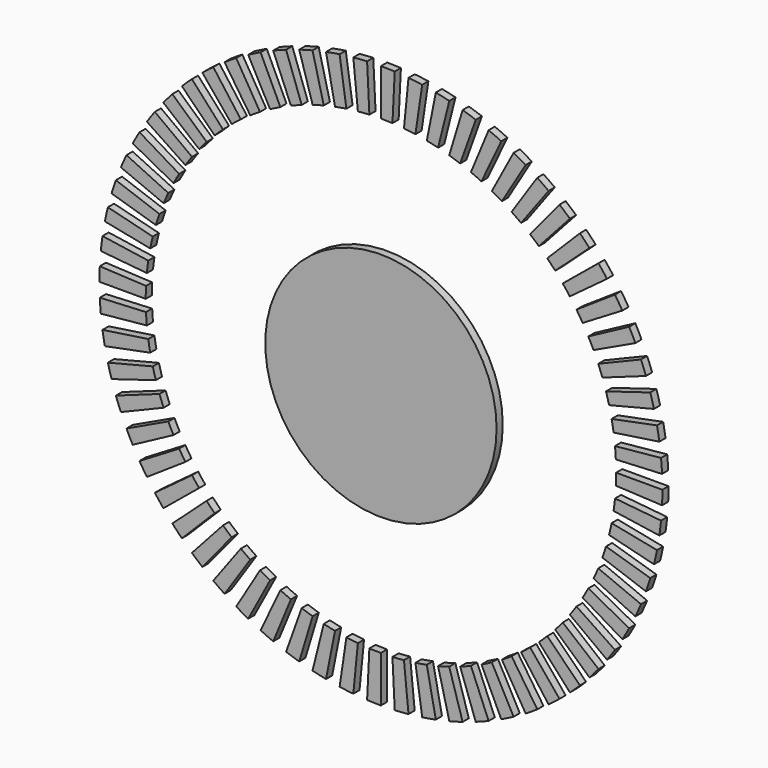
from build123d import *

# Parameters (mm, degrees)
F0_R     = 15
F1_DEPTH = 1


with BuildPart() as f1:
    # F0 (on Front) → F1 (new body)
    with BuildSketch(Plane.XZ):
        with BuildLine():
            Line((1.496564, 30.463261), (1.79097, 36.456034))
            ThreePointArc((1.79097, 36.456034), (0.895755, 36.489007), (0, 36.5))
            Line((0, 36.5), (0, 30.5))
            ThreePointArc((0, 30.5), (0.748507, 30.490814), (1.496564, 30.463261))
        make_face()
        with BuildLine():
            ThreePointArc((-2.989523, 30.353134), (-2.243719, 30.417359), (-1.496564, 30.463261))
            Line((-1.496564, 30.463261), (-1.79097, 36.456034))
            ThreePointArc((-1.79097, 36.456034), (-2.685107, 36.401102), (-3.577626, 36.324243))
            Line((-3.577626, 36.324243), (-2.989523, 30.353134))
        make_face()
        with BuildLine():
            ThreePointArc((-5.950255, 29.913951), (-5.214338, 30.050968), (-4.475279, 30.169884))
            Line((-4.475279, 30.169884), (-5.355662, 36.104943))
            ThreePointArc((-5.355662, 36.104943), (-6.240109, 35.962634), (-7.120797, 35.798663))
            Line((-7.120797, 35.798663), (-5.950255, 29.913951))
        make_face()
        with BuildLine():
            ThreePointArc((-8.853683, 29.18668), (-8.134739, 29.39517), (-7.410895, 29.585953))
            Line((-7.410895, 29.585953), (-8.868777, 35.406141))
            ThreePointArc((-8.868777, 35.406141), (-9.735016, 35.177826), (-10.595391, 34.928322))
            Line((-10.595391, 34.928322), (-8.853683, 29.18668))
        make_face()
        with BuildLine():
            ThreePointArc((-11.671845, 28.178326), (-10.976799, 28.45628), (-10.275141, 28.717094))
            Line((-10.275141, 28.717094), (-12.29648, 34.366358))
            ThreePointArc((-12.29648, 34.366358), (-13.136169, 34.054237), (-13.967945, 33.721603))
            Line((-13.967945, 33.721603), (-11.671845, 28.178326))
        make_face()
        with BuildLine():
            ThreePointArc((-14.3776, 26.898599), (-13.713146, 27.243341), (-13.04043, 27.571673))
            Line((-13.04043, 27.571673), (-15.605761, 32.995609))
            ThreePointArc((-15.605761, 32.995609), (-16.410814, 32.602687), (-17.205981, 32.190126))
            Line((-17.205981, 32.190126), (-14.3776, 26.898599))
        make_face()
        with BuildLine():
            ThreePointArc((-16.944892, 25.359823), (-16.317427, 25.768034), (-15.680134, 26.160723))
            Line((-15.680134, 26.160723), (-18.76475, 31.307094))
            ThreePointArc((-18.76475, 31.307094), (-19.527413, 30.837155), (-20.278314, 30.348641))
            Line((-20.278314, 30.348641), (-16.944892, 25.359823))
        make_face()
        with BuildLine():
            ThreePointArc((-19.348995, 23.576819), (-18.764564, 24.044566), (-18.168829, 24.49783))
            Line((-18.168829, 24.49783), (-21.743025, 29.317075))
            ThreePointArc((-21.743025, 29.317075), (-22.455953, 28.774645), (-23.155355, 28.214882))
            Line((-23.155355, 28.214882), (-19.348995, 23.576819))
        make_face()
        with BuildLine():
            ThreePointArc((-21.566757, 21.566757), (-21.030987, 22.089536), (-20.482548, 22.599009))
            Line((-20.482548, 22.599009), (-24.511902, 27.044716))
            ThreePointArc((-24.511902, 27.044716), (-25.16823, 26.435019), (-25.809398, 25.809398))
            Line((-25.809398, 25.809398), (-21.566757, 21.566757))
        make_face()
        with BuildLine():
            ThreePointArc((-23.576819, 19.348995), (-23.09487, 19.921772), (-22.599009, 20.482548))
            Line((-22.599009, 20.482548), (-27.044716, 24.511902))
            ThreePointArc((-27.044716, 24.511902), (-27.638123, 23.840809), (-28.214882, 23.155355))
            Line((-28.214882, 23.155355), (-23.576819, 19.348995))
        make_face()
        with BuildLine():
            ThreePointArc((-25.359823, 16.944892), (-24.936337, 17.56215), (-24.49783, 18.168829))
            Line((-24.49783, 18.168829), (-29.317075, 21.743025))
            ThreePointArc((-29.317075, 21.743025), (-29.841846, 21.016999), (-30.348641, 20.278314))
            Line((-30.348641, 20.278314), (-25.359823, 16.944892))
        make_face()
        with BuildLine():
            ThreePointArc((-26.898599, 14.3776), (-26.537653, 15.033395), (-26.160723, 15.680134))
            Line((-26.160723, 15.680134), (-31.307094, 18.76475))
            ThreePointArc((-31.307094, 18.76475), (-31.758175, 17.990784), (-32.190126, 17.205981))
            Line((-32.190126, 17.205981), (-26.898599, 14.3776))
        make_face()
        with BuildLine():
            ThreePointArc((-28.178326, 11.671845), (-27.883398, 12.35986), (-27.571673, 13.04043))
            Line((-27.571673, 13.04043), (-32.995609, 15.605761))
            ThreePointArc((-32.995609, 15.605761), (-33.368656, 14.791308), (-33.721603, 13.967945))
            Line((-33.721603, 13.967945), (-28.178326, 11.671845))
        make_face()
        with BuildLine():
            ThreePointArc((-29.18668, 8.853683), (-28.96061, 9.567293), (-28.717094, 10.275141))
            Line((-28.717094, 10.275141), (-34.366358, 12.29648))
            ThreePointArc((-34.366358, 12.29648), (-34.657779, 11.449384), (-34.928322, 10.595391))
            Line((-34.928322, 10.595391), (-29.18668, 8.853683))
        make_face()
        with BuildLine():
            ThreePointArc((-29.913951, 5.950255), (-29.758915, 6.682588), (-29.585953, 7.410895))
            Line((-29.585953, 7.410895), (-35.406141, 8.868777))
            ThreePointArc((-35.406141, 8.868777), (-35.613128, 7.997195), (-35.798663, 7.120797))
            Line((-35.798663, 7.120797), (-29.913951, 5.950255))
        make_face()
        with BuildLine():
            ThreePointArc((-30.353134, 2.989523), (-30.270626, 3.733526), (-30.169884, 4.475279))
            Line((-30.169884, 4.475279), (-36.104943, 5.355662))
            ThreePointArc((-36.104943, 5.355662), (-36.225503, 4.46799), (-36.324243, 3.577626))
            Line((-36.324243, 3.577626), (-30.353134, 2.989523))
        make_face()
        with BuildLine():
            ThreePointArc((-30.5, 0), (-30.490814, 0.748507), (-30.463261, 1.496564))
            Line((-30.463261, 1.496564), (-36.456034, 1.79097))
            ThreePointArc((-36.456034, 1.79097), (-36.489007, 0.895755), (-36.5, 0))
            Line((-36.5, 0), (-30.5, 0))
        make_face()
        with BuildLine():
            ThreePointArc((-30.353134, -2.989523), (-30.417359, -2.243719), (-30.463261, -1.496564))
            Line((-30.463261, -1.496564), (-36.456034, -1.79097))
            ThreePointArc((-36.456034, -1.79097), (-36.401102, -2.685107), (-36.324243, -3.577626))
            Line((-36.324243, -3.577626), (-30.353134, -2.989523))
        make_face()
        with BuildLine():
            ThreePointArc((-29.913951, -5.950255), (-30.050968, -5.214338), (-30.169884, -4.475279))
            Line((-30.169884, -4.475279), (-36.104943, -5.355662))
            ThreePointArc((-36.104943, -5.355662), (-35.962634, -6.240109), (-35.798663, -7.120797))
            Line((-35.798663, -7.120797), (-29.913951, -5.950255))
        make_face()
        with BuildLine():
            ThreePointArc((-29.18668, -8.853683), (-29.39517, -8.134739), (-29.585953, -7.410895))
            Line((-29.585953, -7.410895), (-35.406141, -8.868777))
            ThreePointArc((-35.406141, -8.868777), (-35.177826, -9.735016), (-34.928322, -10.595391))
            Line((-34.928322, -10.595391), (-29.18668, -8.853683))
        make_face()
        with BuildLine():
            ThreePointArc((-28.178326, -11.671845), (-28.45628, -10.976799), (-28.717094, -10.275141))
            Line((-28.717094, -10.275141), (-34.366358, -12.29648))
            ThreePointArc((-34.366358, -12.29648), (-34.054237, -13.136169), (-33.721603, -13.967945))
            Line((-33.721603, -13.967945), (-28.178326, -11.671845))
        make_face()
        with BuildLine():
            ThreePointArc((-26.898599, -14.3776), (-27.243341, -13.713146), (-27.571673, -13.04043))
            Line((-27.571673, -13.04043), (-32.995609, -15.605761))
            ThreePointArc((-32.995609, -15.605761), (-32.602687, -16.410814), (-32.190126, -17.205981))
            Line((-32.190126, -17.205981), (-26.898599, -14.3776))
        make_face()
        with BuildLine():
            ThreePointArc((-25.359823, -16.944892), (-25.768034, -16.317427), (-26.160723, -15.680134))
            Line((-26.160723, -15.680134), (-31.307094, -18.76475))
            ThreePointArc((-31.307094, -18.76475), (-30.837155, -19.527413), (-30.348641, -20.278314))
            Line((-30.348641, -20.278314), (-25.359823, -16.944892))
        make_face()
        with BuildLine():
            ThreePointArc((-23.576819, -19.348995), (-24.044566, -18.764564), (-24.49783, -18.168829))
            Line((-24.49783, -18.168829), (-29.317075, -21.743025))
            ThreePointArc((-29.317075, -21.743025), (-28.774645, -22.455953), (-28.214882, -23.155355))
            Line((-28.214882, -23.155355), (-23.576819, -19.348995))
        make_face()
        with BuildLine():
            ThreePointArc((-21.566757, -21.566757), (-22.089536, -21.030987), (-22.599009, -20.482548))
            Line((-22.599009, -20.482548), (-27.044716, -24.511902))
            ThreePointArc((-27.044716, -24.511902), (-26.435019, -25.16823), (-25.809398, -25.809398))
            Line((-25.809398, -25.809398), (-21.566757, -21.566757))
        make_face()
        with BuildLine():
            ThreePointArc((-19.348995, -23.576819), (-19.921772, -23.09487), (-20.482548, -22.599009))
            Line((-20.482548, -22.599009), (-24.511902, -27.044716))
            ThreePointArc((-24.511902, -27.044716), (-23.840809, -27.638123), (-23.155355, -28.214882))
            Line((-23.155355, -28.214882), (-19.348995, -23.576819))
        make_face()
        with BuildLine():
            ThreePointArc((-16.944892, -25.359823), (-17.56215, -24.936337), (-18.168829, -24.49783))
            Line((-18.168829, -24.49783), (-21.743025, -29.317075))
            ThreePointArc((-21.743025, -29.317075), (-21.016999, -29.841846), (-20.278314, -30.348641))
            Line((-20.278314, -30.348641), (-16.944892, -25.359823))
        make_face()
        with BuildLine():
            ThreePointArc((-14.3776, -26.898599), (-15.033395, -26.537653), (-15.680134, -26.160723))
            Line((-15.680134, -26.160723), (-18.76475, -31.307094))
            ThreePointArc((-18.76475, -31.307094), (-17.990784, -31.758175), (-17.205981, -32.190126))
            Line((-17.205981, -32.190126), (-14.3776, -26.898599))
        make_face()
        with BuildLine():
            ThreePointArc((-11.671845, -28.178326), (-12.35986, -27.883398), (-13.04043, -27.571673))
            Line((-13.04043, -27.571673), (-15.605761, -32.995609))
            ThreePointArc((-15.605761, -32.995609), (-14.791308, -33.368656), (-13.967945, -33.721603))
            Line((-13.967945, -33.721603), (-11.671845, -28.178326))
        make_face()
        with BuildLine():
            ThreePointArc((-8.853683, -29.18668), (-9.567293, -28.96061), (-10.275141, -28.717094))
            Line((-10.275141, -28.717094), (-12.29648, -34.366358))
            ThreePointArc((-12.29648, -34.366358), (-11.449384, -34.657779), (-10.595391, -34.928322))
            Line((-10.595391, -34.928322), (-8.853683, -29.18668))
        make_face()
        with BuildLine():
            ThreePointArc((-5.950255, -29.913951), (-6.682588, -29.758915), (-7.410895, -29.585953))
            Line((-7.410895, -29.585953), (-8.868777, -35.406141))
            ThreePointArc((-8.868777, -35.406141), (-7.997195, -35.613128), (-7.120797, -35.798663))
            Line((-7.120797, -35.798663), (-5.950255, -29.913951))
        make_face()
        with BuildLine():
            ThreePointArc((-2.989523, -30.353134), (-3.733526, -30.270626), (-4.475279, -30.169884))
            Line((-4.475279, -30.169884), (-5.355662, -36.104943))
            ThreePointArc((-5.355662, -36.104943), (-4.46799, -36.225503), (-3.577626, -36.324243))
            Line((-3.577626, -36.324243), (-2.989523, -30.353134))
        make_face()
        with BuildLine():
            ThreePointArc((0, -30.5), (-0.748507, -30.490814), (-1.496564, -30.463261))
            Line((-1.496564, -30.463261), (-1.79097, -36.456034))
            ThreePointArc((-1.79097, -36.456034), (-0.895755, -36.489007), (0, -36.5))
            Line((0, -36.5), (0, -30.5))
        make_face()
        with BuildLine():
            ThreePointArc((2.989523, -30.353134), (2.243719, -30.417359), (1.496564, -30.463261))
            Line((1.496564, -30.463261), (1.79097, -36.456034))
            ThreePointArc((1.79097, -36.456034), (2.685107, -36.401102), (3.577626, -36.324243))
            Line((3.577626, -36.324243), (2.989523, -30.353134))
        make_face()
        with BuildLine():
            ThreePointArc((5.950255, -29.913951), (5.214338, -30.050968), (4.475279, -30.169884))
            Line((4.475279, -30.169884), (5.355662, -36.104943))
            ThreePointArc((5.355662, -36.104943), (6.240109, -35.962634), (7.120797, -35.798663))
            Line((7.120797, -35.798663), (5.950255, -29.913951))
        make_face()
        with BuildLine():
            ThreePointArc((8.853683, -29.18668), (8.134739, -29.39517), (7.410895, -29.585953))
            Line((7.410895, -29.585953), (8.868777, -35.406141))
            ThreePointArc((8.868777, -35.406141), (9.735016, -35.177826), (10.595391, -34.928322))
            Line((10.595391, -34.928322), (8.853683, -29.18668))
        make_face()
        with BuildLine():
            ThreePointArc((11.671845, -28.178326), (10.976799, -28.45628), (10.275141, -28.717094))
            Line((10.275141, -28.717094), (12.29648, -34.366358))
            ThreePointArc((12.29648, -34.366358), (13.136169, -34.054237), (13.967945, -33.721603))
            Line((13.967945, -33.721603), (11.671845, -28.178326))
        make_face()
        with BuildLine():
            ThreePointArc((14.3776, -26.898599), (13.713146, -27.243341), (13.04043, -27.571673))
            Line((13.04043, -27.571673), (15.605761, -32.995609))
            ThreePointArc((15.605761, -32.995609), (16.410814, -32.602687), (17.205981, -32.190126))
            Line((17.205981, -32.190126), (14.3776, -26.898599))
        make_face()
        with BuildLine():
            ThreePointArc((16.944892, -25.359823), (16.317427, -25.768034), (15.680134, -26.160723))
            Line((15.680134, -26.160723), (18.76475, -31.307094))
            ThreePointArc((18.76475, -31.307094), (19.527413, -30.837155), (20.278314, -30.348641))
            Line((20.278314, -30.348641), (16.944892, -25.359823))
        make_face()
        with BuildLine():
            ThreePointArc((19.348995, -23.576819), (18.764564, -24.044566), (18.168829, -24.49783))
            Line((18.168829, -24.49783), (21.743025, -29.317075))
            ThreePointArc((21.743025, -29.317075), (22.455953, -28.774645), (23.155355, -28.214882))
            Line((23.155355, -28.214882), (19.348995, -23.576819))
        make_face()
        with BuildLine():
            ThreePointArc((21.566757, -21.566757), (21.030987, -22.089536), (20.482548, -22.599009))
            Line((20.482548, -22.599009), (24.511902, -27.044716))
            ThreePointArc((24.511902, -27.044716), (25.16823, -26.435019), (25.809398, -25.809398))
            Line((25.809398, -25.809398), (21.566757, -21.566757))
        make_face()
        with BuildLine():
            ThreePointArc((23.576819, -19.348995), (23.09487, -19.921772), (22.599009, -20.482548))
            Line((22.599009, -20.482548), (27.044716, -24.511902))
            ThreePointArc((27.044716, -24.511902), (27.638123, -23.840809), (28.214882, -23.155355))
            Line((28.214882, -23.155355), (23.576819, -19.348995))
        make_face()
        with BuildLine():
            ThreePointArc((25.359823, -16.944892), (24.936337, -17.56215), (24.49783, -18.168829))
            Line((24.49783, -18.168829), (29.317075, -21.743025))
            ThreePointArc((29.317075, -21.743025), (29.841846, -21.016999), (30.348641, -20.278314))
            Line((30.348641, -20.278314), (25.359823, -16.944892))
        make_face()
        with BuildLine():
            ThreePointArc((26.898599, -14.3776), (26.537653, -15.033395), (26.160723, -15.680134))
            Line((26.160723, -15.680134), (31.307094, -18.76475))
            ThreePointArc((31.307094, -18.76475), (31.758175, -17.990784), (32.190126, -17.205981))
            Line((32.190126, -17.205981), (26.898599, -14.3776))
        make_face()
        with BuildLine():
            ThreePointArc((28.178326, -11.671845), (27.883398, -12.35986), (27.571673, -13.04043))
            Line((27.571673, -13.04043), (32.995609, -15.605761))
            ThreePointArc((32.995609, -15.605761), (33.368656, -14.791308), (33.721603, -13.967945))
            Line((33.721603, -13.967945), (28.178326, -11.671845))
        make_face()
        with BuildLine():
            ThreePointArc((29.18668, -8.853683), (28.96061, -9.567293), (28.717094, -10.275141))
            Line((28.717094, -10.275141), (34.366358, -12.29648))
            ThreePointArc((34.366358, -12.29648), (34.657779, -11.449384), (34.928322, -10.595391))
            Line((34.928322, -10.595391), (29.18668, -8.853683))
        make_face()
        with BuildLine():
            ThreePointArc((29.913951, -5.950255), (29.758915, -6.682588), (29.585953, -7.410895))
            Line((29.585953, -7.410895), (35.406141, -8.868777))
            ThreePointArc((35.406141, -8.868777), (35.613128, -7.997195), (35.798663, -7.120797))
            Line((35.798663, -7.120797), (29.913951, -5.950255))
        make_face()
        with BuildLine():
            ThreePointArc((30.353134, -2.989523), (30.270626, -3.733526), (30.169884, -4.475279))
            Line((30.169884, -4.475279), (36.104943, -5.355662))
            ThreePointArc((36.104943, -5.355662), (36.225503, -4.46799), (36.324243, -3.577626))
            Line((36.324243, -3.577626), (30.353134, -2.989523))
        make_face()
        with BuildLine():
            ThreePointArc((30.5, 0), (30.490814, -0.748507), (30.463261, -1.496564))
            Line((30.463261, -1.496564), (36.456034, -1.79097))
            ThreePointArc((36.456034, -1.79097), (36.489007, -0.895755), (36.5, 0))
            Line((36.5, 0), (30.5, 0))
        make_face()
        with BuildLine():
            ThreePointArc((30.353134, 2.989523), (30.417359, 2.243719), (30.463261, 1.496564))
            Line((30.463261, 1.496564), (36.456034, 1.79097))
            ThreePointArc((36.456034, 1.79097), (36.401102, 2.685107), (36.324243, 3.577626))
            Line((36.324243, 3.577626), (30.353134, 2.989523))
        make_face()
        with BuildLine():
            ThreePointArc((29.913951, 5.950255), (30.050968, 5.214338), (30.169884, 4.475279))
            Line((30.169884, 4.475279), (36.104943, 5.355662))
            ThreePointArc((36.104943, 5.355662), (35.962634, 6.240109), (35.798663, 7.120797))
            Line((35.798663, 7.120797), (29.913951, 5.950255))
        make_face()
        with BuildLine():
            ThreePointArc((29.18668, 8.853683), (29.39517, 8.134739), (29.585953, 7.410895))
            Line((29.585953, 7.410895), (35.406141, 8.868777))
            ThreePointArc((35.406141, 8.868777), (35.177826, 9.735016), (34.928322, 10.595391))
            Line((34.928322, 10.595391), (29.18668, 8.853683))
        make_face()
        with BuildLine():
            ThreePointArc((28.178326, 11.671845), (28.45628, 10.976799), (28.717094, 10.275141))
            Line((28.717094, 10.275141), (34.366358, 12.29648))
            ThreePointArc((34.366358, 12.29648), (34.054237, 13.136169), (33.721603, 13.967945))
            Line((33.721603, 13.967945), (28.178326, 11.671845))
        make_face()
        with BuildLine():
            ThreePointArc((26.898599, 14.3776), (27.243341, 13.713146), (27.571673, 13.04043))
            Line((27.571673, 13.04043), (32.995609, 15.605761))
            ThreePointArc((32.995609, 15.605761), (32.602687, 16.410814), (32.190126, 17.205981))
            Line((32.190126, 17.205981), (26.898599, 14.3776))
        make_face()
        with BuildLine():
            ThreePointArc((25.359823, 16.944892), (25.768034, 16.317427), (26.160723, 15.680134))
            Line((26.160723, 15.680134), (31.307094, 18.76475))
            ThreePointArc((31.307094, 18.76475), (30.837155, 19.527413), (30.348641, 20.278314))
            Line((30.348641, 20.278314), (25.359823, 16.944892))
        make_face()
        with BuildLine():
            ThreePointArc((23.576819, 19.348995), (24.044566, 18.764564), (24.49783, 18.168829))
            Line((24.49783, 18.168829), (29.317075, 21.743025))
            ThreePointArc((29.317075, 21.743025), (28.774645, 22.455953), (28.214882, 23.155355))
            Line((28.214882, 23.155355), (23.576819, 19.348995))
        make_face()
        with BuildLine():
            ThreePointArc((21.566757, 21.566757), (22.089536, 21.030987), (22.599009, 20.482548))
            Line((22.599009, 20.482548), (27.044716, 24.511902))
            ThreePointArc((27.044716, 24.511902), (26.435019, 25.16823), (25.809398, 25.809398))
            Line((25.809398, 25.809398), (21.566757, 21.566757))
        make_face()
        with BuildLine():
            ThreePointArc((19.348995, 23.576819), (19.921772, 23.09487), (20.482548, 22.599009))
            Line((20.482548, 22.599009), (24.511902, 27.044716))
            ThreePointArc((24.511902, 27.044716), (23.840809, 27.638123), (23.155355, 28.214882))
            Line((23.155355, 28.214882), (19.348995, 23.576819))
        make_face()
        with BuildLine():
            ThreePointArc((16.944892, 25.359823), (17.56215, 24.936337), (18.168829, 24.49783))
            Line((18.168829, 24.49783), (21.743025, 29.317075))
            ThreePointArc((21.743025, 29.317075), (21.016999, 29.841846), (20.278314, 30.348641))
            Line((20.278314, 30.348641), (16.944892, 25.359823))
        make_face()
        with BuildLine():
            ThreePointArc((14.3776, 26.898599), (15.033395, 26.537653), (15.680134, 26.160723))
            Line((15.680134, 26.160723), (18.76475, 31.307094))
            ThreePointArc((18.76475, 31.307094), (17.990784, 31.758175), (17.205981, 32.190126))
            Line((17.205981, 32.190126), (14.3776, 26.898599))
        make_face()
        with BuildLine():
            ThreePointArc((11.671845, 28.178326), (12.35986, 27.883398), (13.04043, 27.571673))
            Line((13.04043, 27.571673), (15.605761, 32.995609))
            ThreePointArc((15.605761, 32.995609), (14.791308, 33.368656), (13.967945, 33.721603))
            Line((13.967945, 33.721603), (11.671845, 28.178326))
        make_face()
        with BuildLine():
            ThreePointArc((8.853683, 29.18668), (9.567293, 28.96061), (10.275141, 28.717094))
            Line((10.275141, 28.717094), (12.29648, 34.366358))
            ThreePointArc((12.29648, 34.366358), (11.449384, 34.657779), (10.595391, 34.928322))
            Line((10.595391, 34.928322), (8.853683, 29.18668))
        make_face()
        with BuildLine():
            ThreePointArc((5.950255, 29.913951), (6.682588, 29.758915), (7.410895, 29.585953))
            Line((7.410895, 29.585953), (8.868777, 35.406141))
            ThreePointArc((8.868777, 35.406141), (7.997195, 35.613128), (7.120797, 35.798663))
            Line((7.120797, 35.798663), (5.950255, 29.913951))
        make_face()
        with BuildLine():
            ThreePointArc((2.989523, 30.353134), (3.733526, 30.270626), (4.475279, 30.169884))
            Line((4.475279, 30.169884), (5.355662, 36.104943))
            ThreePointArc((5.355662, 36.104943), (4.46799, 36.225503), (3.577626, 36.324243))
            Line((3.577626, 36.324243), (2.989523, 30.353134))
        make_face()
        Circle(F0_R)
    extrude(amount=F1_DEPTH)


solid = f1.part
